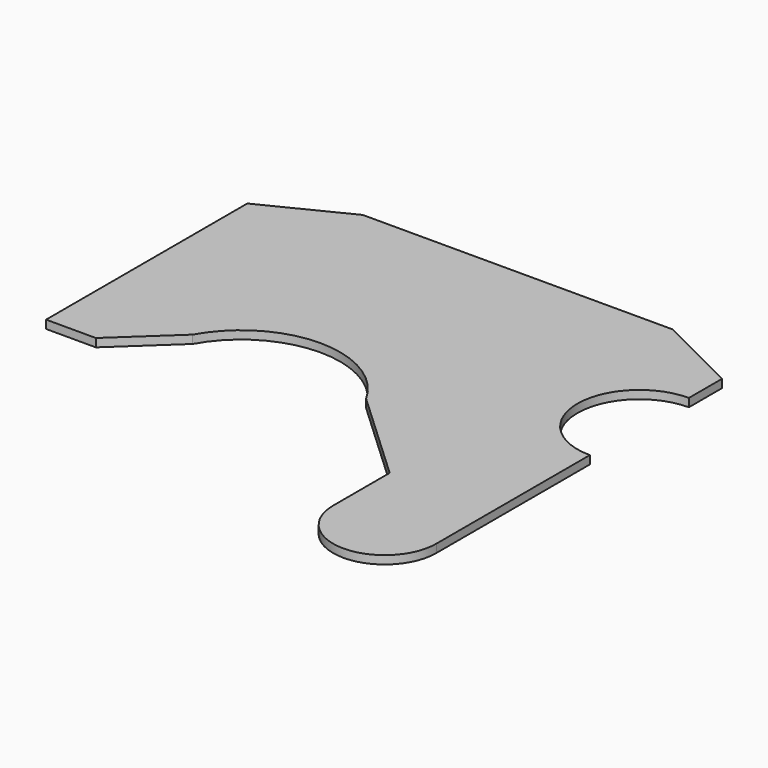
from build123d import *

# Parameters (mm, degrees)
F1_DEPTH = 2


with BuildPart() as f1:
    # F0 (on Top) → F1 (new body)
    with BuildSketch(Plane.XY):
        with BuildLine():
            Line((26.482964, 30.72832), (-48.517036, 30.72832))
            Line((-48.517036, 30.72832), (-68.517036, 20.72832))
            Line((-68.517036, 20.72832), (-68.517036, -40.196751))
            Line((-68.517036, -40.196751), (-56.460455, -40.196751))
            Line((-56.460455, -40.196751), (-43.025967, -27.668888))
            ThreePointArc((-43.025967, -27.668888), (-22.017036, -15.27168), (-1.008104, -27.668888))
            Line((-1.008104, -27.668888), (21.482964, -48.642149))
            Line((21.482964, -48.642149), (21.482964, -65.77168))
            ThreePointArc((21.482964, -65.77168), (33.982964, -78.27168), (46.482964, -65.77168))
            Line((46.482964, -65.77168), (46.482964, -19.27168))
            ThreePointArc((46.482964, -19.27168), (31.482964, -4.27168), (46.482964, 10.72832))
            Line((46.482964, 10.72832), (46.482964, 20.72832))
            Line((46.482964, 20.72832), (26.482964, 30.72832))
        make_face()
    extrude(amount=F1_DEPTH)


solid = f1.part
